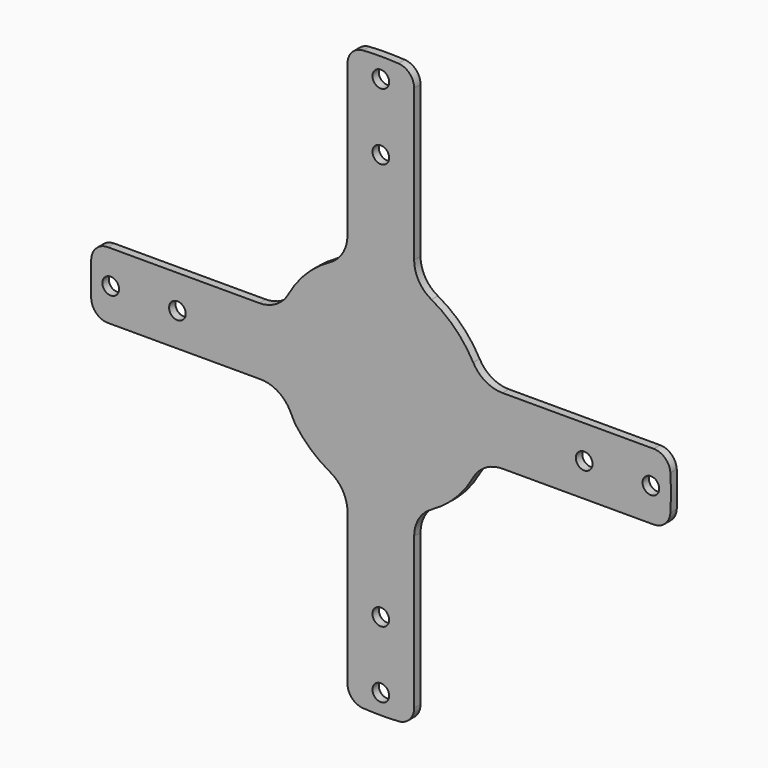
from build123d import *

# Parameters (mm, degrees)
F0_R     = 12.5
F1_DEPTH = 12


with BuildPart() as f1:
    # F0 (on Front) → F1 (new body)
    with BuildSketch(Plane.XZ):
        with BuildLine():
            ThreePointArc((50, 409.237095), (43.208648, 426.367335), (26.52439, 434.190577))
            ThreePointArc((26.52439, 434.190577), (0, 435), (-26.52439, 434.190577))
            ThreePointArc((-26.52439, 434.190577), (-43.208648, 426.367335), (-50, 409.237095))
            Line((-50, 409.237095), (-50, 182.405416))
            ThreePointArc((-50, 182.405416), (-56.977822, 156.928129), (-75.963687, 138.56188))
            ThreePointArc((-75.963687, 138.56188), (-111.73602, 111.73602), (-138.56188, 75.963687))
            ThreePointArc((-138.56188, 75.963687), (-156.928129, 56.977822), (-182.405416, 50))
            Line((-182.405416, 50), (-409.237095, 50))
            ThreePointArc((-409.237095, 50), (-426.367335, 43.208648), (-434.190577, 26.52439))
            ThreePointArc((-434.190577, 26.52439), (-435, 0), (-434.190577, -26.52439))
            ThreePointArc((-434.190577, -26.52439), (-426.367335, -43.208648), (-409.237095, -50))
            Line((-409.237095, -50), (-209.937122, -50))
            Line((-209.937122, -50), (-180.541865, -50.000025))
            ThreePointArc((-180.541865, -50.000025), (-154.415525, -57.368908), (-135.990051, -77.303502))
            Line((-135.990051, -77.303502), (-128.572009, -91.864655))
            ThreePointArc((-128.572009, -91.864655), (-104.899335, -118.177857), (-75.963687, -138.56188))
            ThreePointArc((-75.963687, -138.56188), (-56.977822, -156.928129), (-50, -182.405416))
            Line((-50, -182.405416), (-50, -409.237095))
            ThreePointArc((-50, -409.237095), (-43.208648, -426.367335), (-26.52439, -434.190577))
            ThreePointArc((-26.52439, -434.190577), (0, -435), (26.52439, -434.190577))
            ThreePointArc((26.52439, -434.190577), (43.208648, -426.367335), (50, -409.237095))
            Line((50, -409.237095), (50, -182.405416))
            ThreePointArc((50, -182.405416), (56.977822, -156.928129), (75.963687, -138.56188))
            ThreePointArc((75.963687, -138.56188), (111.73602, -111.73602), (138.56188, -75.963687))
            ThreePointArc((138.56188, -75.963687), (156.928129, -56.977822), (182.405416, -50))
            Line((182.405416, -50), (409.237095, -50))
            ThreePointArc((409.237095, -50), (426.367335, -43.208648), (434.190577, -26.52439))
            ThreePointArc((434.190577, -26.52439), (435, 0), (434.190577, 26.52439))
            ThreePointArc((434.190577, 26.52439), (426.367335, 43.208648), (409.237095, 50))
            Line((409.237095, 50), (182.405416, 50))
            ThreePointArc((182.405416, 50), (156.928129, 56.977822), (138.56188, 75.963687))
            ThreePointArc((138.56188, 75.963687), (111.73602, 111.73602), (75.963687, 138.56188))
            ThreePointArc((75.963687, 138.56188), (56.977822, 156.928129), (50, 182.405416))
            Line((50, 182.405416), (50, 409.237095))
        make_face()
        with Locations((0, -405)):
            Circle(F0_R, mode=Mode.SUBTRACT)
        with Locations((0, -305)):
            Circle(F0_R, mode=Mode.SUBTRACT)
        with Locations((-405, 0)):
            Circle(F0_R, mode=Mode.SUBTRACT)
        with Locations((-305, 0)):
            Circle(F0_R, mode=Mode.SUBTRACT)
        with Locations((305, 0)):
            Circle(F0_R, mode=Mode.SUBTRACT)
        with Locations((405, 0)):
            Circle(F0_R, mode=Mode.SUBTRACT)
        with Locations((0, 305)):
            Circle(F0_R, mode=Mode.SUBTRACT)
        with Locations((0, 405)):
            Circle(F0_R, mode=Mode.SUBTRACT)
    extrude(amount=F1_DEPTH)


solid = f1.part
